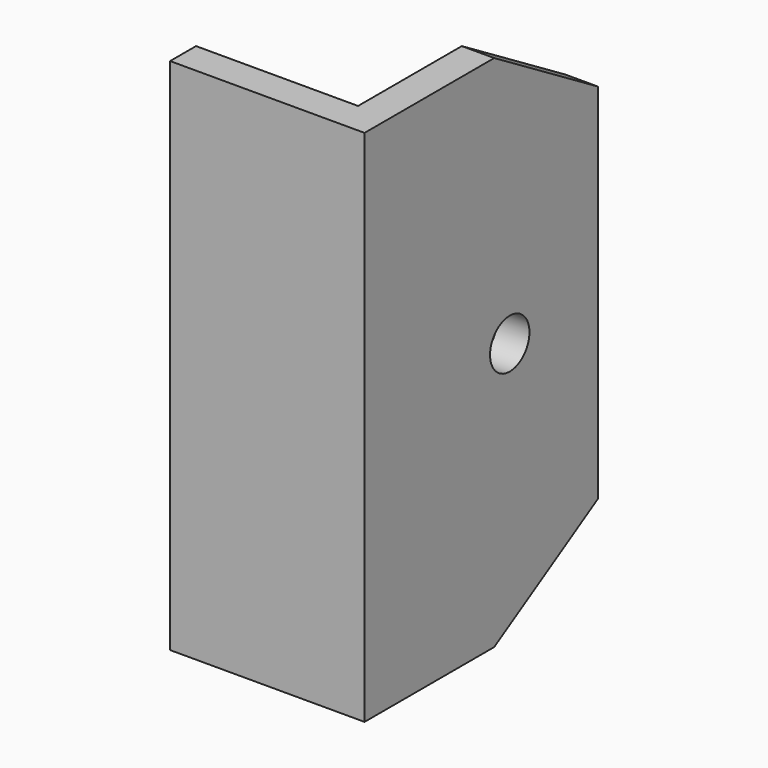
from build123d import *

# Parameters (mm, degrees)
F0_W     = 19.05
F0_H     = 50.8
F1_DEPTH = 14.2875
F2_T     = -3.175
F4_D     = 4.826
F5_SIZE2 = 7.62
F5_SIZE  = 12.7


with BuildPart() as f1:
    # F0 (on Front) → F1 (new body, symmetric)
    with BuildSketch(Plane.XZ):
        with Locations((1.503078, -4.818475)):
            Rectangle(F0_W, F0_H)
    extrude(amount=F1_DEPTH, both=True)

    # F2
    f2_openings = [f1.faces().sort_by_distance(p)[0] for p in [
        (-8.021922, 0, -4.818475),
        (1.503078, 0, -30.218475),
        (1.503078, 14.2875, -4.818475),
        (1.503078, 0, 20.581525),
    ]]
    offset(amount=F2_T, openings=f2_openings)

    # F4 (through all)
    with Locations(Plane.YZ.offset(11.028078)):
        with Locations((3.4925, -4.818475)):
            Hole(F4_D / 2)

    # F5
    f5_edges = [f1.edges().sort_by_distance(p)[0] for p in [
        (9.440578, 14.2875, -30.218475),
        (9.440578, 14.2875, 20.581525),
    ]]
    chamfer(f5_edges, length=F5_SIZE, length2=F5_SIZE2)


solid = f1.part
